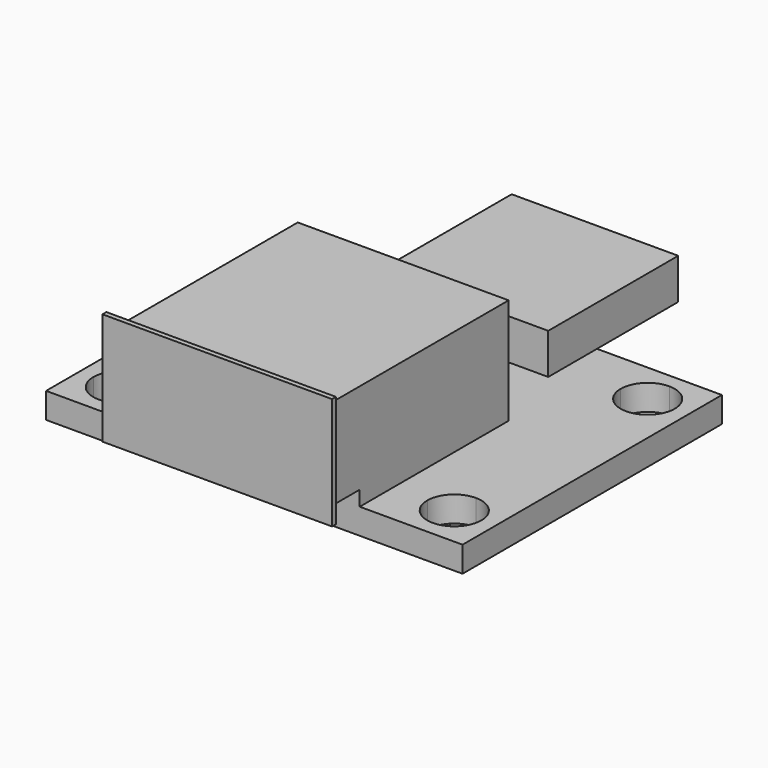
from build123d import *

# Parameters (mm, degrees)
F0_W     = 3.81
F0_H     = 1.6002
F1_DEPTH = 13.0175
F0_W_2   = 11.6332
F0_H_2   = 0.9398
F2_DEPTH = 6.5913
F0_W_3   = 0.3048
F0_H_3   = 2.8448
F0_H_4   = 0.6604
F3_DEPTH = 7.1755
F0_H_5   = 2.54
F0_W_4   = 6.35
F0_H_6   = 1.4478
F4_DEPTH = 5.207
F0_W_5   = 5.08
F0_H_7   = 2.032
F5_DEPTH = 8.1788
F7_DEPTH = 3.6332


with BuildPart() as f1:
    # F0 (on Right) → F1 (new body, symmetric)
    with BuildSketch(Plane.YZ):
        Polygon((11.6332, 0), (0, 0), (0, -1.6002), (5.08, -1.6002), (10.16, -1.6002), (16.4592, -1.6002), (16.4592, 0), align=None)
        with Locations((18.3642, -0.8001)):
            Rectangle(F0_W, F0_H)
    extrude(amount=F1_DEPTH, both=True)

    # F0 (on Right) → F2 (join, symmetric)
    with BuildSketch(Plane.YZ):
        with Locations((5.8166, 0.4699)):
            Rectangle(F0_W_2, F0_H_2)
        Polygon((-2.5908, 0.9398), (0, 0.9398), (11.6332, 0.9398), (11.6332, 6.6294), (-2.5908, 6.6294), (-2.5908, 3.7846), align=None)
    extrude(amount=F2_DEPTH, both=True)

    # F0 (on Right) → F3 (join, symmetric)
    with BuildSketch(Plane.YZ):
        with Locations((-2.7432, 5.207)):
            Rectangle(F0_W_3, F0_H_3)
        with Locations((-2.7432, 6.9596)):
            Rectangle(F0_W_3, F0_H_4)
        with Locations((-2.7432, 2.3622)):
            Rectangle(F0_W_3, F0_H_3)
        with Locations((-2.7432, 0.6096)):
            Rectangle(F0_W_3, F0_H_4)
    extrude(amount=F3_DEPTH, both=True)

    # F0 (on Right) → F4 (join, symmetric)
    with BuildSketch(Plane.YZ):
        with Locations((18.3642, 1.27)):
            Rectangle(F0_W, F0_H_5)
        with Locations((23.4442, 1.27)):
            Rectangle(F0_W_4, F0_H_5)
        with Locations((18.3642, -2.3241)):
            Rectangle(F0_W, F0_H_6)
    extrude(amount=F4_DEPTH, both=True)

    # F0 (on Right) → F5 (join, symmetric)
    with BuildSketch(Plane.YZ):
        with Locations((7.62, -2.6162)):
            Rectangle(F0_W_5, F0_H_7)
    extrude(amount=F5_DEPTH, both=True)

    # F6 (on face) → F7 (cut, through all)
    with BuildSketch(Plane.XY):
        with BuildLine():
            Line((-10.4394, 4.2672), (-10.4394, 0.889))
            ThreePointArc((-10.4394, 0.889), (-9.245026, 1.383726), (-8.7503, 2.5781))
            ThreePointArc((-8.7503, 2.5781), (-9.245026, 3.772474), (-10.4394, 4.2672))
        make_face()
        with BuildLine():
            ThreePointArc((-12.1285, 2.5781), (-11.633774, 1.383726), (-10.4394, 0.889))
            Line((-10.4394, 0.889), (-10.4394, 4.2672))
            ThreePointArc((-10.4394, 4.2672), (-11.633774, 3.772474), (-12.1285, 2.5781))
        make_face()
        with BuildLine():
            Line((-10.4394, 19.3802), (-10.4394, 16.002))
            ThreePointArc((-10.4394, 16.002), (-9.245026, 16.496726), (-8.7503, 17.6911))
            ThreePointArc((-8.7503, 17.6911), (-9.245026, 18.885474), (-10.4394, 19.3802))
        make_face()
        with BuildLine():
            ThreePointArc((-12.1285, 17.6911), (-11.633774, 16.496726), (-10.4394, 16.002))
            Line((-10.4394, 16.002), (-10.4394, 19.3802))
            ThreePointArc((-10.4394, 19.3802), (-11.633774, 18.885474), (-12.1285, 17.6911))
        make_face()
        with BuildLine():
            ThreePointArc((8.7503, 17.6911), (9.245026, 16.496726), (10.4394, 16.002))
            Line((10.4394, 16.002), (10.4394, 19.3802))
            ThreePointArc((10.4394, 19.3802), (9.245026, 18.885474), (8.7503, 17.6911))
        make_face()
        with BuildLine():
            Line((10.4394, 19.3802), (10.4394, 16.002))
            ThreePointArc((10.4394, 16.002), (11.633774, 16.496726), (12.1285, 17.6911))
            ThreePointArc((12.1285, 17.6911), (11.633774, 18.885474), (10.4394, 19.3802))
        make_face()
        with BuildLine():
            ThreePointArc((8.7503, 2.5781), (9.245026, 1.383726), (10.4394, 0.889))
            Line((10.4394, 0.889), (10.4394, 4.2672))
            ThreePointArc((10.4394, 4.2672), (9.245026, 3.772474), (8.7503, 2.5781))
        make_face()
        with BuildLine():
            Line((10.4394, 4.2672), (10.4394, 0.889))
            ThreePointArc((10.4394, 0.889), (11.633774, 1.383726), (12.1285, 2.5781))
            ThreePointArc((12.1285, 2.5781), (11.633774, 3.772474), (10.4394, 4.2672))
        make_face()
    extrude(amount=-F7_DEPTH, mode=Mode.SUBTRACT)


solid = f1.part
